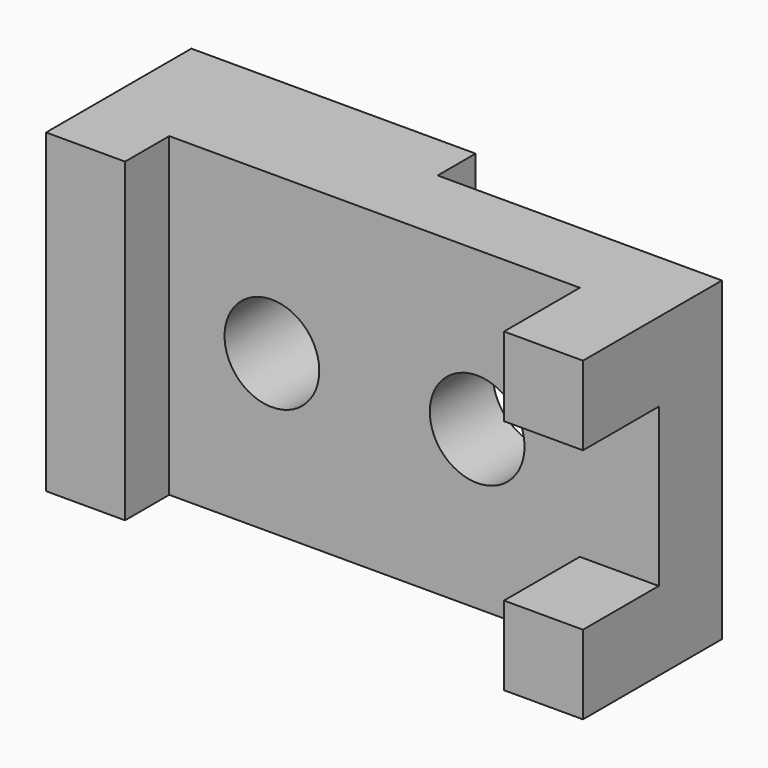
from build123d import *

# Parameters (mm, degrees)
F0_W      = 114.3
F0_H      = 63.5
F1_DEPTH  = 25.4
F2_W      = 15.875
F2_H      = 63.5
F3_DEPTH  = 11.1125
F4_R      = 9.525
F5_DEPTH  = 25.4
F6_R      = 9.525
F7_DEPTH  = 25.4
F8_W      = 15.875
F8_H      = 63.5
F9_DEPTH  = 19.05
F10_W     = 15.875
F10_H     = 31.75
F11_DEPTH = 19.05
F12_W     = 57.15
F12_H     = 63.5
F12_R     = 9.525
F13_DEPTH = 9.525


with BuildPart() as f1:
    # F0 (on Front) → F1 (new body)
    with BuildSketch(Plane.XZ):
        with Locations((12.284802, -3.837464)):
            Rectangle(F0_W, F0_H)
    extrude(amount=F1_DEPTH)

    # F2 (on face) → F3 (join)
    with BuildSketch(Plane.XZ.offset(25.4)):
        with Locations((-36.927698, -3.837464)):
            Rectangle(F2_W, F2_H)
    extrude(amount=F3_DEPTH)

    # F4 (on face) → F5 (cut)
    with BuildSketch(Plane.XZ.offset(25.4)):
        with Locations((-8.352698, -3.837464)):
            Circle(F4_R)
    extrude(amount=-F5_DEPTH, mode=Mode.SUBTRACT)

    # F6 (on face) → F7 (cut)
    with BuildSketch(Plane.XZ.offset(25.4)):
        with Locations((32.922302, -3.837464)):
            Circle(F6_R)
    extrude(amount=-F7_DEPTH, mode=Mode.SUBTRACT)

    # F8 (on face) → F9 (join)
    with BuildSketch(Plane.XZ.offset(25.4)):
        with Locations((61.497302, -3.837464)):
            Rectangle(F8_W, F8_H)
    extrude(amount=F9_DEPTH)

    # F10 (on face) → F11 (cut)
    with BuildSketch(Plane.XZ.offset(44.45)):
        with Locations((61.497302, -3.837464)):
            Rectangle(F10_W, F10_H)
    extrude(amount=-F11_DEPTH, mode=Mode.SUBTRACT)

    # F12 (on face) → F13 (cut)
    with BuildSketch(Plane(origin=(0, 0, 0), x_dir=(-1, 0, 0), z_dir=(0, 1, 0))):
        with Locations((-40.859802, -3.837464)):
            Rectangle(F12_W, F12_H)
        with Locations((-32.922302, -3.837464)):
            Circle(F12_R, mode=Mode.SUBTRACT)
    extrude(amount=-F13_DEPTH, mode=Mode.SUBTRACT)


solid = f1.part
